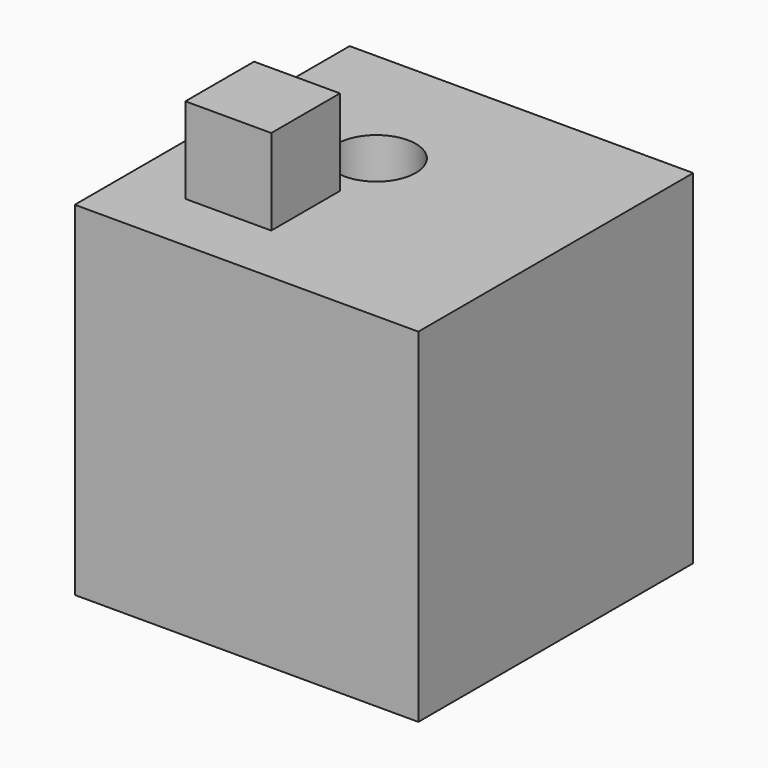
from build123d import *

# Parameters (mm, degrees)
F0_W     = 101.6
F0_H     = 101.6
F1_DEPTH = 101.6
F2_R     = 11.654727
F3_DEPTH = 101.6
F4_W     = 25.4
F4_H     = 25.4
F5_DEPTH = 25.4


with BuildPart() as f1:
    # F0 (on Front) → F1 (new body)
    with BuildSketch(Plane.XZ):
        with Locations((-50.8, 50.8)):
            Rectangle(F0_W, F0_H)
    extrude(amount=F1_DEPTH)

    # F2 (on face) → F3 (cut)
    with BuildSketch(Plane.XY.offset(101.6)):
        with Locations((-61.702333, -39.977964)):
            Circle(F2_R)
    extrude(amount=-F3_DEPTH, mode=Mode.SUBTRACT)

    # F4 (on face) → F5 (join)
    with BuildSketch(Plane.XY.offset(101.6)):
        with Locations((-70.796629, -70.656015)):
            Rectangle(F4_W, F4_H)
    extrude(amount=F5_DEPTH)


solid = f1.part
